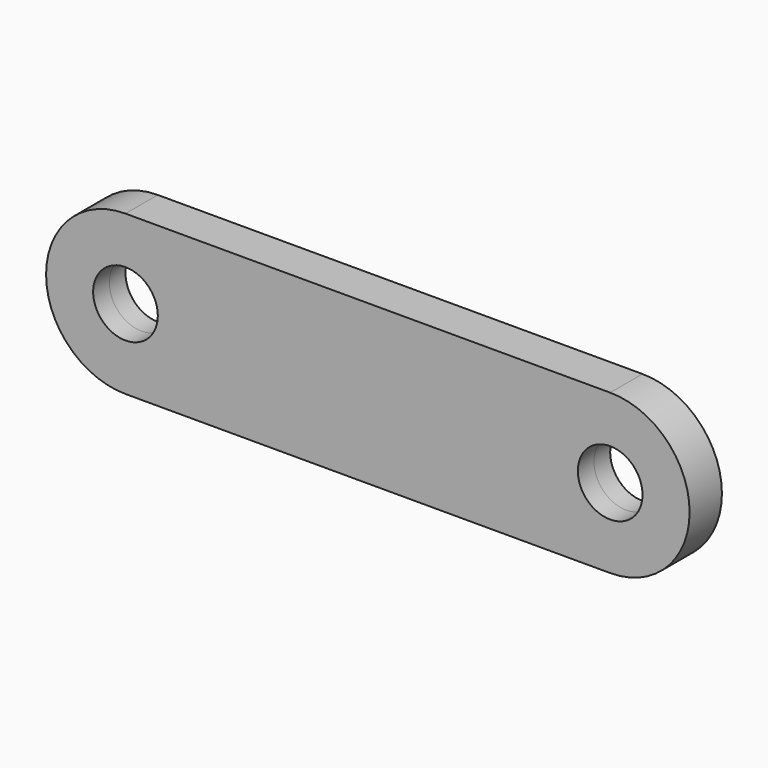
from build123d import *

# Parameters (mm, degrees)
F0_R     = 4.0005
F1_DEPTH = 2.5


with BuildPart() as f1:
    # F0 (on Front) → F1 (new body, symmetric)
    with BuildSketch(Plane.XZ):
        with BuildLine():
            Line((29.9974, 9.8298), (0, 9.8298))
            Line((0, 9.8298), (-29.9974, 9.8298))
            ThreePointArc((-29.9974, 9.8298), (-39.8272, 0), (-29.9974, -9.8298))
            Line((-29.9974, -9.8298), (0, -9.8298))
            Line((0, -9.8298), (29.9974, -9.8298))
            ThreePointArc((29.9974, -9.8298), (39.8272, 0), (29.9974, 9.8298))
        make_face()
        with Locations((-29.9974, 0)):
            Circle(F0_R, mode=Mode.SUBTRACT)
        with BuildLine():
            ThreePointArc((33.9979, 0), (29.9974, -4.0005), (25.9969, 0))
            ThreePointArc((25.9969, 0), (29.9974, 4.0005), (33.9979, 0))
        make_face(mode=Mode.SUBTRACT)
    extrude(amount=F1_DEPTH, both=True)


solid = f1.part
